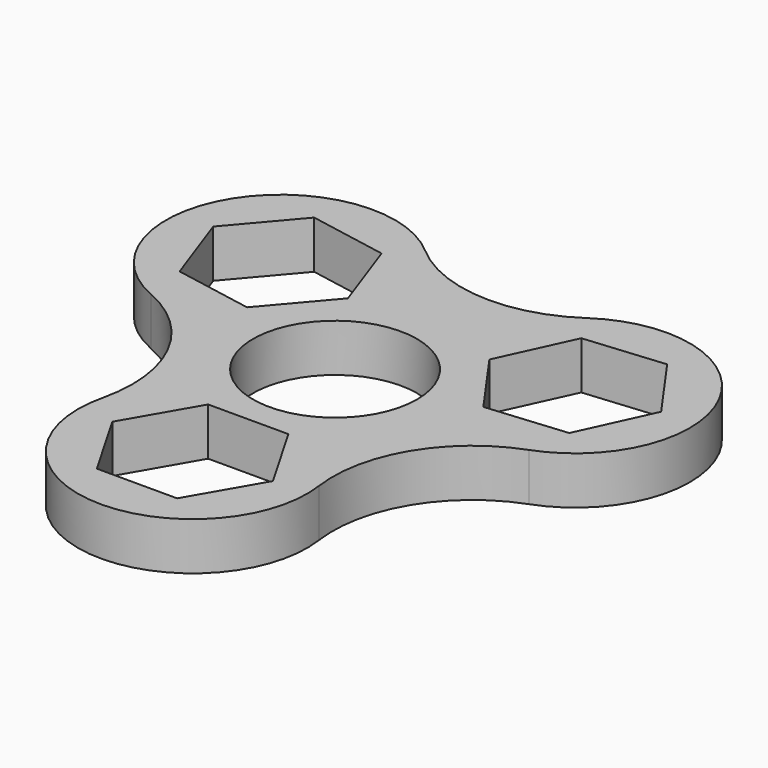
from build123d import *

# Parameters (mm, degrees)
F0_R     = 10.9
F1_DEPTH = 6.35


with BuildPart() as f1:
    # F0 (on Top) → F1 (new body)
    with BuildSketch(Plane.XY):
        with BuildLine():
            ThreePointArc((13.228129, 25.30639), (1.688161, 22.143717), (-9.380748, 26.688233))
            ThreePointArc((-9.380748, 26.688233), (-32.290788, 23.354116), (-25.471394, 1.229872))
            ThreePointArc((-25.471394, 1.229872), (-16.258297, -7.500306), (-14.818769, -20.110815))
            ThreePointArc((-14.818769, -20.110815), (-0.740262, -38.891151), (15.094116, -21.565509))
            ThreePointArc((15.094116, -21.565509), (17.552294, -9.477479), (27.050368, -1.606665))
            ThreePointArc((27.050368, -1.606665), (35.339896, 19.656741), (13.228129, 25.30639))
        make_face()
        Polygon((10.675899, -23.66914), (5.33795, -32.91474), (-5.33795, -32.91474), (-10.675899, -23.66914), (-5.33795, -14.42354), (5.33795, -14.42354), align=None, mode=Mode.SUBTRACT)
        Circle(F0_R, mode=Mode.SUBTRACT)
        Polygon((-12.487971, 23.341115), (-8.907928, 13.283376), (-15.828164, 5.154098), (-26.328443, 7.08256), (-29.908486, 17.140299), (-22.98825, 25.269577), align=None, mode=Mode.SUBTRACT)
        Polygon((26.244348, 22.393405), (32.413558, 13.680445), (27.952518, 3.981272), (17.322268, 2.99506), (11.153058, 11.70802), (15.614098, 21.407193), align=None, mode=Mode.SUBTRACT)
    extrude(amount=F1_DEPTH)


solid = f1.part
